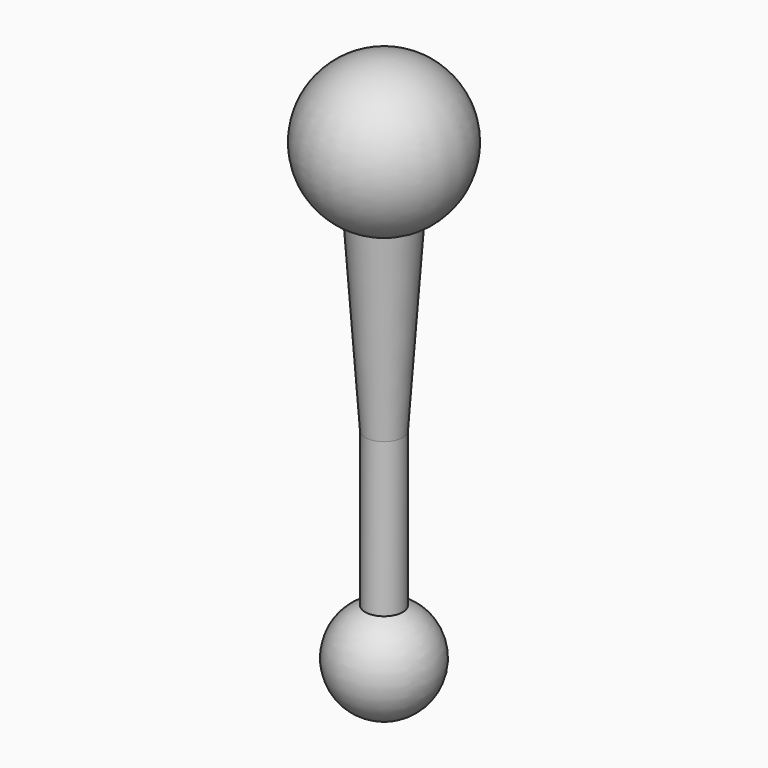
from build123d import *


with BuildPart() as f1:
    # F0 (on Front) → F1 (revolve)
    with BuildSketch(Plane.XZ):
        with BuildLine():
            Line((37.658826, 624.889306), (37.658826, 184.962754))
            Line((37.658826, 184.962754), (37.658826, -183.337246))
            ThreePointArc((37.658826, -183.337246), (64.599594, -194.496477), (75.758826, -221.437246))
            ThreePointArc((75.758826, -221.437246), (64.599594, -248.378014), (37.658826, -259.537246))
            Line((37.658826, -259.537246), (37.658826, -323.037246))
            ThreePointArc((37.658826, -323.037246), (137.388032, -240.844599), (75.758826, -127.251525))
            Line((75.758826, -127.251525), (75.758826, 184.962754))
            Line((75.758826, 184.962754), (102.15898, 563.011465))
            ThreePointArc((102.15898, 563.011465), (186.435206, 734.124871), (37.658826, 853.489306))
            Line((37.658826, 853.489306), (37.658826, 777.289306))
            ThreePointArc((37.658826, 777.289306), (91.540362, 754.970843), (113.858826, 701.089306))
            ThreePointArc((113.858826, 701.089306), (91.540362, 647.207769), (37.658826, 624.889306))
        make_face()
    revolve(axis=Axis((37.658826, 0, 404.92603), (0, 0, 1)))


solid = f1.part
